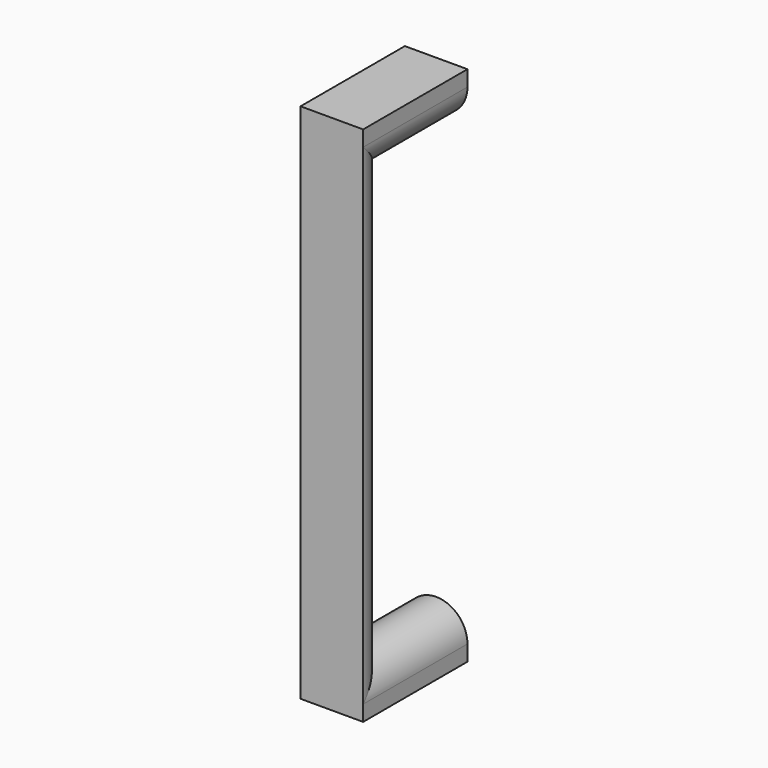
from build123d import *

# Parameters (mm, degrees)
F3_DEPTH = 3
F4_DEPTH = 3


with BuildPart() as f2:
    # F2: sweep along a path in F0
    with BuildLine(Plane.YZ) as f2_path:
        Line((0, 47), (-25, 47))
        Line((-25, 47), (-25, -47))
        Line((-25, -47), (0, -47))
    # F1 (on Front) → F2 (sweep)
    with BuildSketch(Plane.XZ):
        with BuildLine():
            Line((6, 47), (-6, 47))
            ThreePointArc((-6, 47), (0, 41), (6, 47))
        make_face()
    sweep(path=f2_path.line, transition=Transition.RIGHT)

    # F3 (add): a face of the model
    f3_faces = [f2.faces().sort_by_distance(p)[0] for p in [
        (0, -12.5, 47),
    ]]
    extrude(f3_faces, amount=F3_DEPTH)

    # F4 (add): a face of the model
    f4_faces = [f2.faces().sort_by_distance(p)[0] for p in [
        (0, -12.5, -47),
    ]]
    extrude(f4_faces, amount=F4_DEPTH)


solid = f2.part
